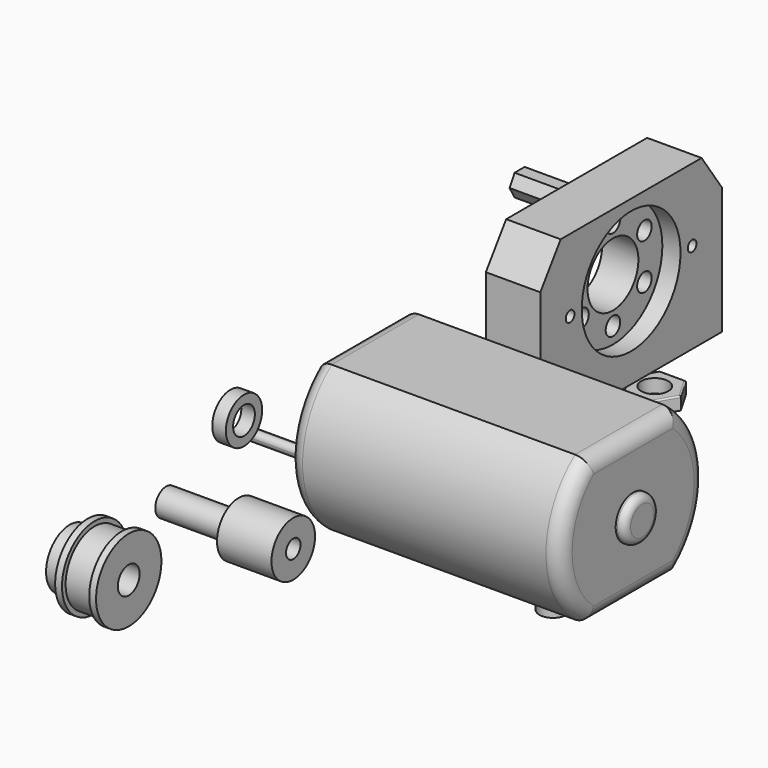
from build123d import *

# Parameters (mm, degrees)
F1_DEPTH  = 95.25
F2_R      = 5.08
F3_R      = 5.08
F4_R      = 7.62
F5_DEPTH  = 3.175
F6_R      = 3.175
F7_DEPTH  = 12.7
F8_R      = 2.54
F9_R      = 7.62
F10_DEPTH = 3.175
F11_R     = 2.54
F13_DEPTH = 15.875
F14_W     = 79.375
F14_H     = 57.15
F14_R     = 1.905
F15_DEPTH = 19.05
F16_R     = 4.7625
F16_R_2   = 1.905
F17_DEPTH = 12.7
F18_R     = 11.1125
F19_DEPTH = 98.426
F20_SIZE2 = 12.7
F20_SIZE  = 8.89
F21_R     = 4.7625
F22_DEPTH = 15.875
F23_R     = 3.175
F24_DEPTH = 98.426
F25_R     = 21.59
F25_R_2   = 3.175
F25_R_3   = 11.1125
F26_DEPTH = 6.35
F27_R     = 9.525
F28_DEPTH = 19.05
F29_R     = 4.7625
F30_DEPTH = 25.4
F31_R     = 3.175
F32_DEPTH = 12.7
F33_R     = 14.2875
F33_R_2   = 4.7625
F34_DEPTH = 2.3876
F35_R     = 10.3124
F35_R_2   = 4.7625
F36_DEPTH = 6.35
F37_R     = 12.7
F37_R_2   = 4.7625
F38_DEPTH = 11.9126
F39_R     = 14.2875
F39_R_2   = 12.7
F40_DEPTH = 2.3876
F41_R     = 7.9375
F41_R_2   = 4.7625
F42_DEPTH = 4.7498
F44_R     = 1.905
F45_DEPTH = 15.875
F47_R     = 4.7625
F48_DEPTH = 50.8
F49_R     = 4.7625
F50_DEPTH = 4.7498
F51_R     = 0.508


with BuildPart() as f1:
    # F0 (on Right) → F1 (new body)
    with BuildSketch(Plane.YZ):
        with BuildLine():
            Line((15.6462786544, 10.6068992332), (-22.4537213456, 10.6068992332))
            ThreePointArc((-22.4537213456, 10.6068992332), (-35.1537213456, -14.7931007668), (-22.4537213456, -40.1931007668))
            Line((-22.4537213456, -40.1931007668), (15.6462786544, -40.1931007668))
            ThreePointArc((15.6462786544, -40.1931007668), (28.3462786544, -14.7931007668), (15.6462786544, 10.6068992332))
        make_face()
    extrude(amount=F1_DEPTH)

    # F2
    f2_edges = [f1.edges().sort_by_distance(p)[0] for p in [
        (95.25, -35.153721, -14.793101),
        (95.25, 28.346279, -14.793101),
        (95.25, -3.403721, 10.606899),
        (95.25, -3.403721, -40.193101),
    ]]
    fillet(f2_edges, radius=F2_R)

    # F3
    f3_edges = [f1.edges().sort_by_distance(p)[0] for p in [
        (0, -3.403721, 10.606899),
        (0, -3.403721, -40.193101),
        (0, -35.153721, -14.793101),
        (0, 28.346279, -14.793101),
    ]]
    fillet(f3_edges, radius=F3_R)

    # F4 (on face) → F5 (join)
    with BuildSketch(Plane(origin=(0, 0, 0), x_dir=(0, -1, 0), z_dir=(-1, 0, 0))):
        with Locations((3.4037213456, -14.7931007668)):
            Circle(F4_R)
    extrude(amount=F5_DEPTH)

    # F6 (on face) → F7 (join)
    with BuildSketch(Plane(origin=(-3.175, 0, 0), x_dir=(0, -1, 0), z_dir=(-1, 0, 0))):
        with Locations((3.4037213456, -14.7931007668)):
            Circle(F6_R)
    extrude(amount=F7_DEPTH)

    # F8
    f8_edges = [f1.edges().sort_by_distance(p)[0] for p in [
        (-3.175, 4.216279, -14.793101),
    ]]
    fillet(f8_edges, radius=F8_R)

    # F9 (on face) → F10 (join)
    with BuildSketch(Plane.YZ.offset(95.25)):
        with Locations((-3.4037213456, -14.7931007668)):
            Circle(F9_R)
    extrude(amount=F10_DEPTH)

    # F11
    f11_edges = [f1.edges().sort_by_distance(p)[0] for p in [
        (98.425, -11.023721, -14.793101),
    ]]
    fillet(f11_edges, radius=F11_R)

    # F12 (on face) → F13 (join)
    with BuildSketch(Plane(origin=(0, 0, 0), x_dir=(0, -1, 0), z_dir=(-1, 0, 0))):
        with BuildLine():
            ThreePointArc((-23.1982429401, -16.6968854557), (-21.8953969972, -16.1158662344), (-21.3612786544, -14.7931007668))
            ThreePointArc((-21.3612786544, -14.7931007668), (-21.8953969972, -13.4703352993), (-23.1982429401, -12.889316078))
            ThreePointArc((-23.1982429401, -12.889316078), (-23.2662786544, -14.7931007668), (-23.1982429401, -16.6968854557))
        make_face()
        with BuildLine():
            ThreePointArc((-23.1982429401, -16.6968854557), (-23.2662786544, -14.7931007668), (-23.1982429401, -12.889316078))
            ThreePointArc((-23.1982429401, -12.889316078), (-25.1712786544, -14.7931007668), (-23.1982429401, -16.6968854557))
        make_face()
        with BuildLine():
            ThreePointArc((31.9787213456, -14.7931007668), (31.3964868132, -13.4222191097), (30.0056856313, -12.889316078))
            ThreePointArc((30.0056856313, -12.889316078), (30.0737213456, -14.7931007668), (30.0056856313, -16.6968854557))
            ThreePointArc((30.0056856313, -16.6968854557), (31.3964868132, -16.163982424), (31.9787213456, -14.7931007668))
        make_face()
        with BuildLine():
            ThreePointArc((30.0056856313, -16.6968854557), (30.0737213456, -14.7931007668), (30.0056856313, -12.889316078))
            ThreePointArc((30.0056856313, -12.889316078), (28.1687213456, -14.7931007668), (30.0056856313, -16.6968854557))
        make_face()
    extrude(amount=F13_DEPTH)


with BuildPart() as f15:
    # F14 (on Right) → F15 (new body)
    with BuildSketch(Plane.YZ):
        with Locations((90.9697466791, -8.427348591)):
            Rectangle(F14_W, F14_H)
        with Locations((64.2997466791, -5.252348591)):
            Circle(F14_R, mode=Mode.SUBTRACT)
        with Locations((117.6397466791, -5.252348591)):
            Circle(F14_R, mode=Mode.SUBTRACT)
    extrude(amount=F15_DEPTH)

    # F16 (on face) → F17 (cut)
    with BuildSketch(Plane(origin=(0, 0, 0), x_dir=(0, -1, 0), z_dir=(-1, 0, 0))):
        with Locations((-117.6397466791, -5.252348591)):
            Circle(F16_R)
        with Locations((-117.6397466791, -5.252348591)):
            Circle(F16_R_2, mode=Mode.SUBTRACT)
        with Locations((-64.2997466791, -5.252348591)):
            Circle(F16_R)
        with Locations((-64.2997466791, -5.252348591)):
            Circle(F16_R_2, mode=Mode.SUBTRACT)
    extrude(amount=-F17_DEPTH, mode=Mode.SUBTRACT)

    # F18 (on face) → F19 (cut, through all)
    with BuildSketch(Plane(origin=(0, 0, 0), x_dir=(0, -1, 0), z_dir=(-1, 0, 0))):
        with Locations((-90.9697466791, -5.252348591)):
            Circle(F18_R)
    extrude(amount=-F19_DEPTH, mode=Mode.SUBTRACT)

    # F20
    f20_edges = [f15.edges().sort_by_distance(p)[0] for p in [
        (9.525, 130.657247, 20.147651),
        (9.525, 51.282247, 20.147651),
    ]]
    f20_side = f15.faces().sort_by_distance((9.525, 90.969747, 20.147651))[0]
    chamfer(f20_edges, length=F20_SIZE, length2=F20_SIZE2, reference=f20_side)

    # F21 (on face) → F22 (cut)
    with BuildSketch(Plane(origin=(0, 0, -37.002348591), x_dir=(1, 0, 0), z_dir=(0, 0, -1))):
        with Locations((9.525, -68.7447466791)):
            Circle(F21_R)
        with Locations((9.525, -113.1947466791)):
            Circle(F21_R)
    extrude(amount=-F22_DEPTH, mode=Mode.SUBTRACT)

    # F23 (on face) → F24 (cut, through all)
    with BuildSketch(Plane(origin=(0, 0, 0), x_dir=(0, -1, 0), z_dir=(-1, 0, 0))):
        with Locations((-90.9697466791, 10.622651409)):
            Circle(F23_R)
        with Locations((-77.221593394, 2.685151409)):
            Circle(F23_R)
        with Locations((-77.221593394, -13.189848591)):
            Circle(F23_R)
        with Locations((-90.9697466791, -21.127348591)):
            Circle(F23_R)
        with Locations((-104.7178999641, -13.189848591)):
            Circle(F23_R)
        with Locations((-104.7178999641, 2.685151409)):
            Circle(F23_R)
    extrude(amount=-F24_DEPTH, mode=Mode.SUBTRACT)

    # F25 (on face) → F26 (cut)
    with BuildSketch(Plane.YZ.offset(19.05)):
        with Locations((90.9697466791, -5.252348591)):
            Circle(F25_R)
        with Locations((77.221593394, -13.189848591)):
            Circle(F25_R_2, mode=Mode.SUBTRACT)
        with Locations((90.9697466791, -21.127348591)):
            Circle(F25_R_2, mode=Mode.SUBTRACT)
        with Locations((104.7178999641, -13.189848591)):
            Circle(F25_R_2, mode=Mode.SUBTRACT)
        with Locations((77.221593394, 2.685151409)):
            Circle(F25_R_2, mode=Mode.SUBTRACT)
        with Locations((90.9697466791, -5.252348591)):
            Circle(F25_R_3, mode=Mode.SUBTRACT)
        with Locations((104.7178999641, 2.685151409)):
            Circle(F25_R_2, mode=Mode.SUBTRACT)
        with Locations((90.9697466791, 10.622651409)):
            Circle(F25_R_2, mode=Mode.SUBTRACT)
    extrude(amount=-F26_DEPTH, mode=Mode.SUBTRACT)


with BuildPart() as f28:
    # F27 (on Right) → F28 (new body)
    with BuildSketch(Plane.YZ):
        with Locations((-56.6999092698, -27.628203854)):
            Circle(F27_R)
    extrude(amount=F28_DEPTH)

    # F29 (on face) → F30 (join)
    with BuildSketch(Plane(origin=(0, 0, 0), x_dir=(0, -1, 0), z_dir=(-1, 0, 0))):
        with Locations((56.6999092698, -27.628203854)):
            Circle(F29_R)
    extrude(amount=F30_DEPTH)

    # F31 (on face) → F32 (cut)
    with BuildSketch(Plane.YZ.offset(19.05)):
        with Locations((-56.6999092698, -27.628203854)):
            Circle(F31_R)
    extrude(amount=-F32_DEPTH, mode=Mode.SUBTRACT)


with BuildPart() as f34:
    # F33 (on Right) → F34 (new body)
    with BuildSketch(Plane.YZ):
        with Locations((-122.6783245802, -11.9609721005)):
            Circle(F33_R)
        with Locations((-122.6783245802, -11.9609721005)):
            Circle(F33_R_2, mode=Mode.SUBTRACT)
    extrude(amount=F34_DEPTH)

    # F35 (on face) → F36 (join)
    with BuildSketch(Plane(origin=(0, 0, 0), x_dir=(0, -1, 0), z_dir=(-1, 0, 0))):
        with Locations((122.6783245802, -11.9609721005)):
            Circle(F35_R)
        with Locations((122.6783245802, -11.9609721005)):
            Circle(F35_R_2, mode=Mode.SUBTRACT)
    extrude(amount=F36_DEPTH)

    # F37 (on face) → F38 (join)
    with BuildSketch(Plane.YZ.offset(2.3876)):
        with Locations((-122.6783245802, -11.9609721005)):
            Circle(F37_R)
        with Locations((-122.6783245802, -11.9609721005)):
            Circle(F37_R_2, mode=Mode.SUBTRACT)
    extrude(amount=F38_DEPTH)

    # F39 (on face) → F40 (join)
    with BuildSketch(Plane.YZ.offset(14.3002)):
        with Locations((-122.6783245802, -11.9609721005)):
            Circle(F39_R)
        with Locations((-122.6783245802, -11.9609721005)):
            Circle(F39_R_2, mode=Mode.SUBTRACT)
    extrude(amount=-F40_DEPTH)


with BuildPart() as f42:
    # F41 (on Right) → F42 (new body)
    with BuildSketch(Plane.YZ):
        with Locations((-54.4231086969, 4.7665531747)):
            Circle(F41_R)
        with Locations((-54.4231086969, 4.7665531747)):
            Circle(F41_R_2, mode=Mode.SUBTRACT)
    extrude(amount=-F42_DEPTH)


with BuildPart() as f45:
    # F44 (on offset) → F45 (new body)
    with BuildSketch(Plane(origin=(-25.4, 0, 0), x_dir=(0, -1, 0), z_dir=(-1, 0, 0))):
        Polygon((-115.4400421535, -9.062348591), (-113.2403376278, -5.252348591), (-115.4400421535, -1.442348591), (-119.8394512047, -1.442348591), (-122.0391557303, -5.252348591), (-119.8394512047, -9.062348591), align=None)
        with Locations((-117.6397466791, -5.252348591)):
            Circle(F44_R, mode=Mode.SUBTRACT)
    extrude(amount=F45_DEPTH)


with BuildPart() as f48:
    # F47 (on offset) → F48 (new body)
    with BuildSketch(Plane(origin=(0, 0, -49.702348591), x_dir=(1, 0, 0), z_dir=(0, 0, -1))):
        with Locations((9.525, -68.7447466791)):
            Circle(F47_R)
    extrude(amount=F48_DEPTH)


with BuildPart() as f50:
    # F49 (on offset) → F50 (new body)
    with BuildSketch(Plane(origin=(0, 0, -49.702348591), x_dir=(1, 0, 0), z_dir=(0, 0, -1))):
        Polygon((14.1077177617, -121.1322466791), (18.6904355234, -113.1947466791), (14.1077177617, -105.2572466791), (4.9422822383, -105.2572466791), (0.3595644766, -113.1947466791), (4.9422822383, -121.1322466791), align=None)
        with Locations((9.525, -113.1947466791)):
            Circle(F49_R, mode=Mode.SUBTRACT)
    extrude(amount=F50_DEPTH)

    # F51
    f51_edges = [f50.edges().sort_by_distance(p)[0] for p in [
        (2.650923, 117.163497, -54.452149),
        (2.650923, 109.225997, -54.452149),
        (9.525, 105.257247, -54.452149),
        (16.399077, 109.225997, -54.452149),
        (16.399077, 117.163497, -54.452149),
        (9.525, 121.132247, -54.452149),
        (2.650923, 117.163497, -49.702349),
        (9.525, 121.132247, -49.702349),
        (16.399077, 117.163497, -49.702349),
        (16.399077, 109.225997, -49.702349),
        (9.525, 105.257247, -49.702349),
        (2.650923, 109.225997, -49.702349),
    ]]
    fillet(f51_edges, radius=F51_R)


solid = Compound([f1.part, f15.part, f28.part, f34.part, f42.part, f45.part, f48.part, f50.part])
